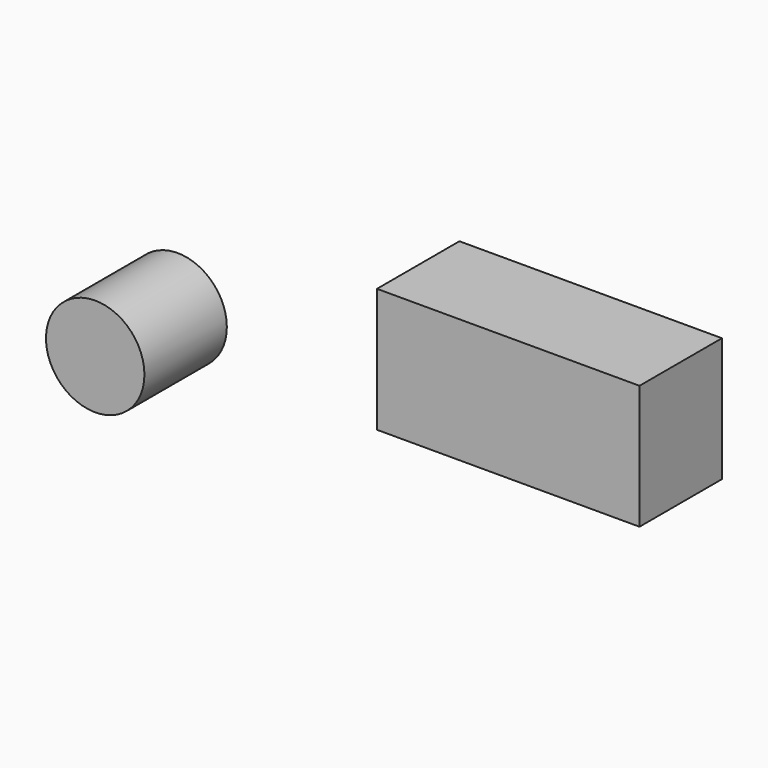
from build123d import *

# Parameters (mm, degrees)
F0_R     = 11.943713
F0_W     = 63.707634
F0_H     = 30.120512
F1_DEPTH = 25


with BuildPart() as f1:
    # F0 (on Front) → F1 (new body)
    with BuildSketch(Plane.XZ):
        with Locations((-158.976868, 10.947404)):
            Circle(F0_R)
        with Locations((-58.73961, 32.577486)):
            Rectangle(F0_W, F0_H)
    extrude(amount=F1_DEPTH)


solid = f1.part
